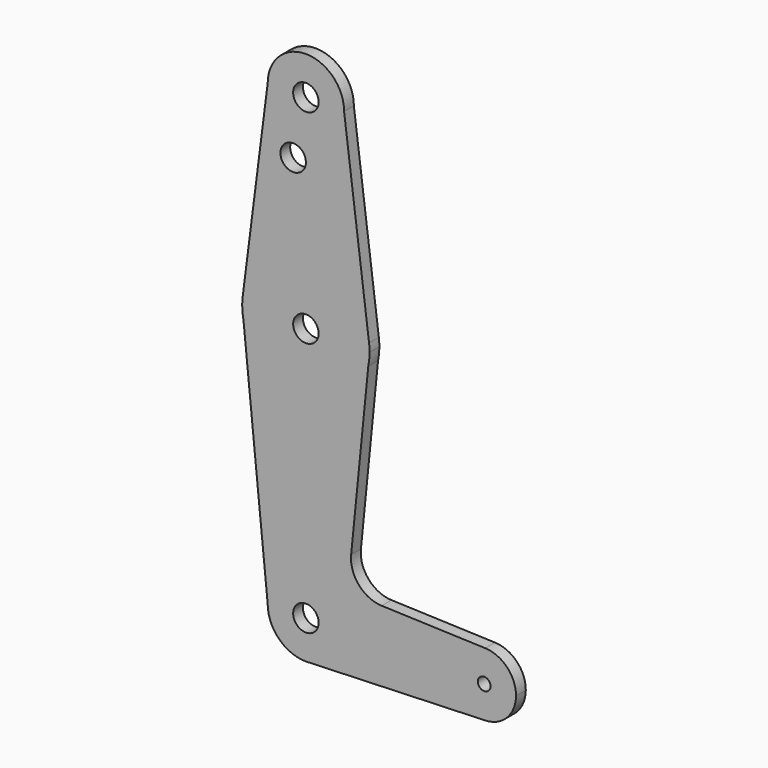
from build123d import *

# Parameters (mm, degrees)
F0_R     = 3.175
F0_R_2   = 1.5875
F1_DEPTH = 3.048


with BuildPart() as f1:
    # F0 (on Front) → F1 (new body)
    with BuildSketch(Plane.XZ):
        with BuildLine():
            ThreePointArc((-9.525, 114.3), (0, 104.775), (9.525, 114.3))
            ThreePointArc((9.525, 114.3), (0, 123.825), (-9.525, 114.3))
        make_face()
        with Locations((0, 114.3)):
            Circle(F0_R, mode=Mode.SUBTRACT)
        with BuildLine():
            Line((15.747457, 65.508289), (9.525, 114.3))
            ThreePointArc((9.525, 114.3), (0, 104.775), (-9.525, 114.3))
            Line((-9.525, 114.3), (-15.747457, 65.508289))
            ThreePointArc((-15.747457, 65.508289), (0, 79.375), (15.747457, 65.508289))
        make_face()
        with Locations((-3.175, 100.0252)):
            Circle(F0_R, mode=Mode.SUBTRACT)
        with BuildLine():
            ThreePointArc((15.875, 63.5), (15.843082, 64.506168), (15.747457, 65.508289))
            ThreePointArc((15.747457, 65.508289), (0, 79.375), (-15.747457, 65.508289))
            ThreePointArc((-15.747457, 65.508289), (-15.843082, 64.506168), (-15.875, 63.5))
            Line((-15.875, 63.5), (-15.560644, 60.356436))
            ThreePointArc((-15.560644, 60.356436), (0, 47.625), (15.560644, 60.356436))
            Line((15.560644, 60.356436), (15.875, 63.5))
        make_face()
        with Locations((0, 63.5)):
            Circle(F0_R, mode=Mode.SUBTRACT)
        with BuildLine():
            ThreePointArc((15.560644, 60.356436), (15.796215, 61.920378), (15.875, 63.5))
            Line((15.875, 63.5), (15.560644, 60.356436))
        make_face()
        with BuildLine():
            Line((-15.560644, 60.356436), (-15.875, 63.5))
            ThreePointArc((-15.875, 63.5), (-15.796215, 61.920378), (-15.560644, 60.356436))
        make_face()
        with BuildLine():
            Line((11.283796, 17.587963), (15.560644, 60.356436))
            ThreePointArc((15.560644, 60.356436), (0, 47.625), (-15.560644, 60.356436))
            Line((-15.560644, 60.356436), (-9.525, 0))
            ThreePointArc((-9.525, 0), (0, 9.525), (9.525, 0))
            ThreePointArc((9.525, 0), (6.970557, -6.491299), (0.677344, -9.500886))
            Line((0.677344, -9.500886), (44.732405, -7.932475))
            ThreePointArc((44.732405, -7.932475), (36.5125, 0), (44.732405, 7.932475))
            Line((44.732405, 7.932475), (18.911684, 8.851722))
            ThreePointArc((18.911684, 8.851722), (13.205864, 11.567986), (11.283796, 17.587963))
        make_face()
        with BuildLine():
            ThreePointArc((9.525, 0), (0, 9.525), (-9.525, 0))
            ThreePointArc((-9.525, 0), (-6.735192, -6.735192), (0, -9.525))
            Line((0, -9.525), (0.677344, -9.500886))
            ThreePointArc((0.677344, -9.500886), (6.970557, -6.491299), (9.525, 0))
        make_face()
        Circle(F0_R, mode=Mode.SUBTRACT)
        with BuildLine():
            Line((0.677344, -9.500886), (0, -9.525))
            ThreePointArc((0, -9.525), (0.338886, -9.51897), (0.677344, -9.500886))
        make_face()
        with BuildLine():
            ThreePointArc((52.3875, 0), (50.161633, 5.51191), (44.732405, 7.932475))
            ThreePointArc((44.732405, 7.932475), (36.5125, 0), (44.732405, -7.932475))
            ThreePointArc((44.732405, -7.932475), (50.161633, -5.51191), (52.3875, 0))
        make_face()
        with Locations((44.45, 0)):
            Circle(F0_R_2, mode=Mode.SUBTRACT)
    extrude(amount=F1_DEPTH)


solid = f1.part
